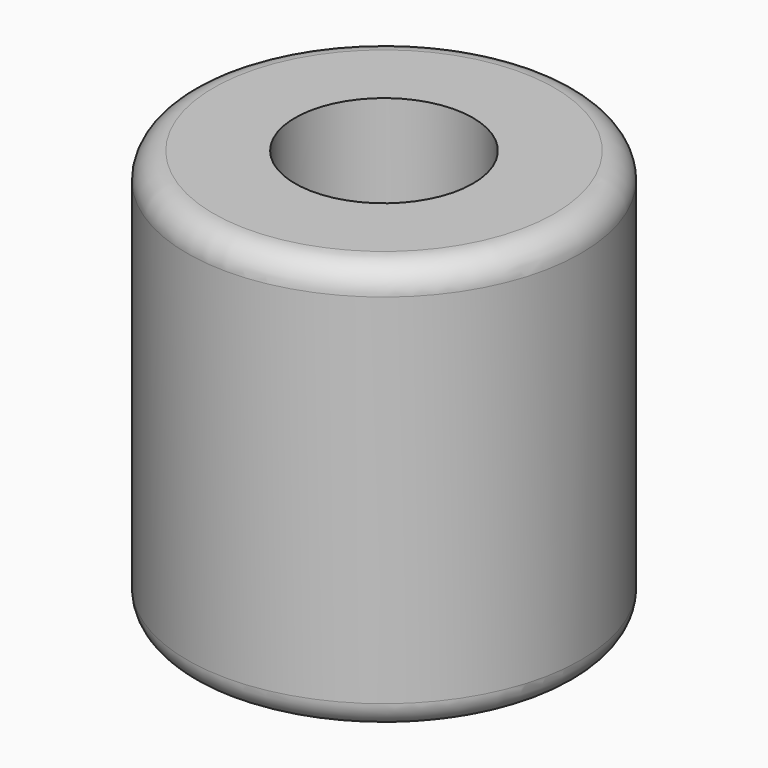
from build123d import *

# Parameters (mm, degrees)
F0_R     = 37.855446
F1_DEPTH = 78.994
F2_R     = 5.08
F3_R     = 17.109797
F4_DEPTH = 118.11


with BuildPart() as f1:
    # F0 (on Top) → F1 (new body)
    with BuildSketch(Plane.XY):
        Circle(F0_R)
    extrude(amount=F1_DEPTH)

    # F2
    f2_edges = [f1.edges().sort_by_distance(p)[0] for p in [
        (37.855446, 0, 39.497),
        (-37.855446, 0, 0),
        (-37.855446, 0, 78.994),
    ]]
    fillet(f2_edges, radius=F2_R)

    # F3 (on face) → F4 (cut)
    with BuildSketch(Plane.XY.offset(78.994)):
        Circle(F3_R)
    extrude(amount=-F4_DEPTH, mode=Mode.SUBTRACT)


solid = f1.part
